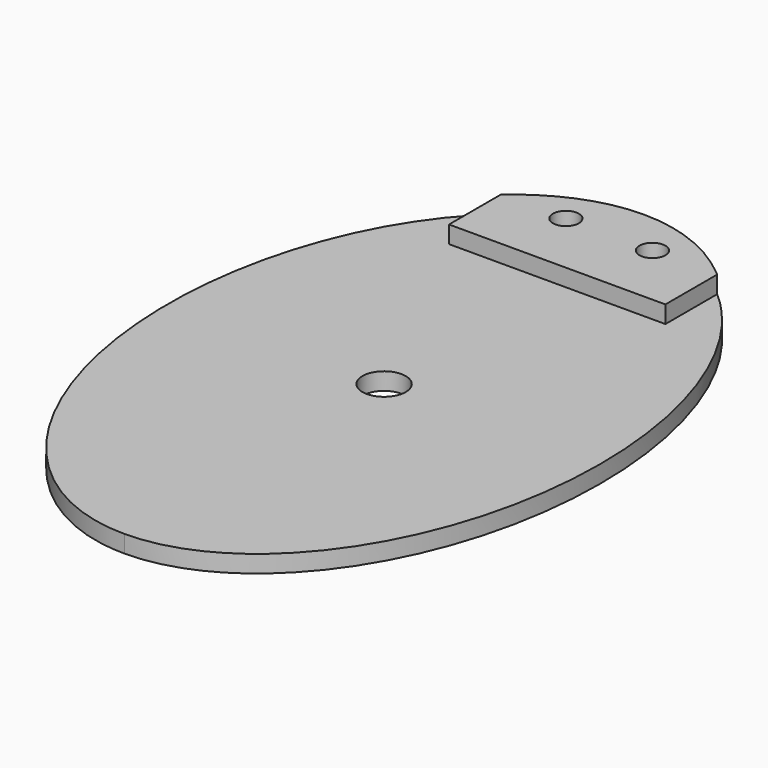
from build123d import *

# Parameters (mm, degrees)
F0_R     = 1.905
F0_R_2   = 3.175
F1_DEPTH = 2.54
F2_R     = 1.905
F3_DEPTH = 2.54
F4_R     = 1.905
F5_DEPTH = 2.54


with BuildPart() as f1:
    # F0 (on Top) → F1 (new body)
    with BuildSketch(Plane.XY):
        with BuildLine():
            add(Edge.make_bspline(
                [(0, -47.625), (54.9926131403, -47.625), (27.4963065702, 23.8125), (0, 95.25), (-27.4963065702, 23.8125), (-54.9926131403, -47.625), (0, -47.625)],
                knots=[0, 0, 0, 2.0943951024, 2.0943951024, 4.1887902048, 4.1887902048, 6.2831853072, 6.2831853072, 6.2831853072], degree=2, weights=[1, 0.5, 1, 0.5, 1, 0.5, 1]))
        make_face()
        with Locations((-6.35, 41.275)):
            Circle(F0_R, mode=Mode.SUBTRACT)
        Circle(F0_R_2, mode=Mode.SUBTRACT)
        with Locations((6.35, 41.275)):
            Circle(F0_R, mode=Mode.SUBTRACT)
    extrude(amount=F1_DEPTH)

    # F2 (on face) → F3 (join)
    with BuildSketch(Plane.XY.offset(2.54)):
        with BuildLine():
            Line((-15.875, 31.75), (0, 31.75))
            Line((0, 31.75), (15.875, 31.75))
            Line((15.875, 31.75), (15.875, 41.2444598552))
            add(Edge.make_bspline(
                [(15.875, 41.2444598552), (0, 54.9926131403), (-15.875, 41.2444598552)],
                knots=[2.617993878, 2.617993878, 2.617993878, 3.6651914292, 3.6651914292, 3.6651914292], degree=2, weights=[1, 0.8660254038, 1]))
            Line((-15.875, 41.2444598552), (-15.875, 31.75))
        make_face()
        with Locations((-6.35, 41.275)):
            Circle(F2_R, mode=Mode.SUBTRACT)
        with Locations((6.35, 41.275)):
            Circle(F2_R, mode=Mode.SUBTRACT)
    extrude(amount=F3_DEPTH)

    # F4 (on face) → F5 (cut)
    with BuildSketch(Plane(origin=(0, 0, 0), x_dir=(1, 0, 0), z_dir=(0, 0, -1))):
        with BuildLine():
            Line((9.525, -38.1), (0, -38.1))
            Line((0, -38.1), (-9.525, -38.1))
            Line((-9.525, -38.1), (-9.525, -45.4313544675))
            add(Edge.make_bspline(
                [(-9.525, -45.4313544675), (0, -49.9245653489), (9.525, -45.4313544675)],
                knots=[2.8368999996, 2.8368999996, 2.8368999996, 3.4462853076, 3.4462853076, 3.4462853076], degree=2, weights=[1, 0.9539392014, 1]))
            Line((9.525, -45.4313544675), (9.525, -38.1))
        make_face()
        with Locations((-6.35, -41.275)):
            Circle(F4_R, mode=Mode.SUBTRACT)
        with Locations((6.35, -41.275)):
            Circle(F4_R, mode=Mode.SUBTRACT)
    extrude(amount=-F5_DEPTH, mode=Mode.SUBTRACT)


solid = f1.part
